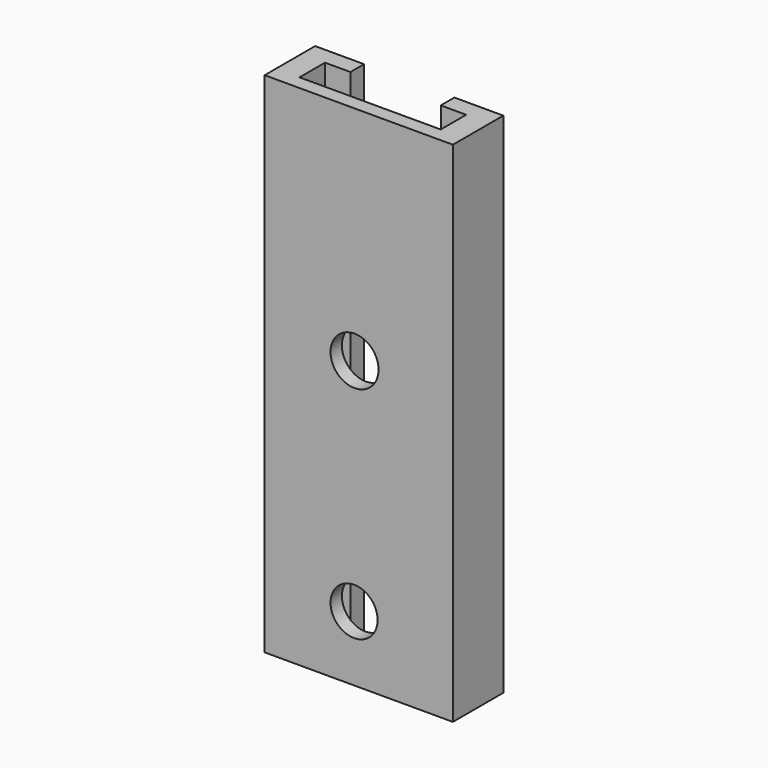
from build123d import *

# Parameters (mm, degrees)
F0_W     = 20
F0_H     = 54
F1_DEPTH = 6.7
F3_DEPTH = 67.5
F4_R     = 2.550327
F4_R_2   = 2.5
F5_DEPTH = 25


with BuildPart() as f1:
    # F0 (on Front) → F1 (new body)
    with BuildSketch(Plane.XZ):
        with Locations((-25.59652, 16.161585)):
            Rectangle(F0_W, F0_H)
    extrude(amount=F1_DEPTH)

    # F2 (on face) → F3 (cut)
    with BuildSketch(Plane.XY.offset(43.161585)):
        Polygon((-20.79652, -1.810443), (-20.79652, 0), (-30.39652, 0), (-30.39652, -1.811175), (-33.09652, -1.811175), (-33.09652, -5.193342), (-18.09652, -5.193342), (-18.09652, -1.810443), align=None)
    extrude(amount=-F3_DEPTH, mode=Mode.SUBTRACT)

    # F4 (on face) → F5 (cut)
    with BuildSketch(Plane(origin=(0, -5.193342, 0), x_dir=(-1, 0, 0), z_dir=(0, 1, 0))):
        with Locations((26.046193, 19.544126)):
            Circle(F4_R)
        with Locations((26.09652, -3.912448)):
            Circle(F4_R_2)
    extrude(amount=-F5_DEPTH, mode=Mode.SUBTRACT)


solid = f1.part
